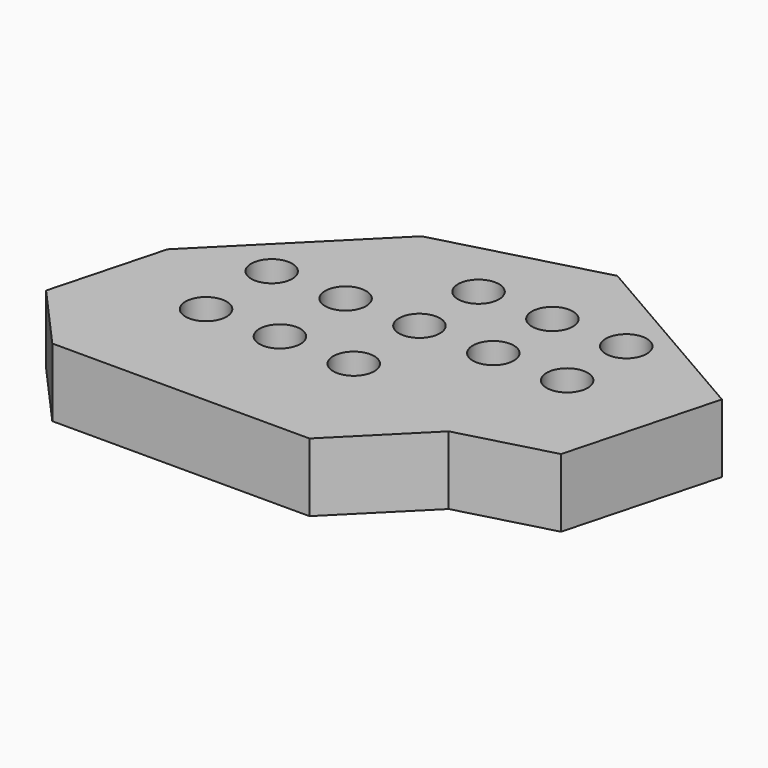
from build123d import *

# Parameters (mm, degrees)
F0_R     = 7.5
F1_DEPTH = 25


with BuildPart() as f1:
    # F0 (on Top) → F1 (new body)
    with BuildSketch(Plane.XY):
        Polygon((-96.839212, -36.563825), (-75, -61.022968), (19, -61.022968), (47.284271, -32.738697), (81.091675, -23.68003), (95.844361, 31.377742), (24.830278, 72.377742), (-34.091198, 56.58978), (-85.709993, 4.970985), align=None)
        with Locations((-54, -17.022968)):
            Circle(F0_R, mode=Mode.SUBTRACT)
        with Locations((-27, -17.022968)):
            Circle(F0_R, mode=Mode.SUBTRACT)
        with Locations((0, -17.022968)):
            Circle(F0_R, mode=Mode.SUBTRACT)
        with Locations((-54, 12.977032)):
            Circle(F0_R, mode=Mode.SUBTRACT)
        with Locations((-27, 12.977032)):
            Circle(F0_R, mode=Mode.SUBTRACT)
        with Locations((0, 12.977032)):
            Circle(F0_R, mode=Mode.SUBTRACT)
        with Locations((27, 12.977032)):
            Circle(F0_R, mode=Mode.SUBTRACT)
        with Locations((54, 12.977032)):
            Circle(F0_R, mode=Mode.SUBTRACT)
        with Locations((0, 39.977032)):
            Circle(F0_R, mode=Mode.SUBTRACT)
        with Locations((27, 39.977032)):
            Circle(F0_R, mode=Mode.SUBTRACT)
        with Locations((54, 39.977032)):
            Circle(F0_R, mode=Mode.SUBTRACT)
    extrude(amount=F1_DEPTH)


solid = f1.part
